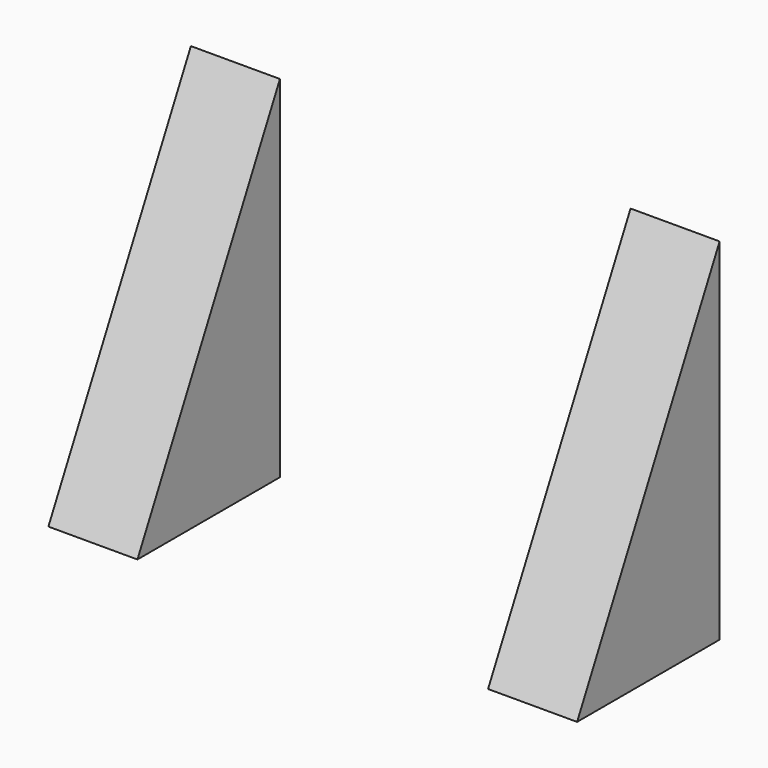
from build123d import *

# Parameters (mm, degrees)
F1_DEPTH = 30.16
F2_W     = 20
F2_H     = 20
F3_DEPTH = 10.161


with BuildPart() as f1:
    # F0 (on Right) → F1 (new body)
    with BuildSketch(Plane.YZ):
        Polygon((-10.16, 0), (0, 0), (0, 20), align=None)
    extrude(amount=F1_DEPTH)

    # F2 (on face) → F3 (cut, through all)
    with BuildSketch(Plane(origin=(0, 0, 0), x_dir=(-1, 0, 0), z_dir=(0, 1, 0))):
        with Locations((-15.08, 10)):
            Rectangle(F2_W, F2_H)
    extrude(amount=-F3_DEPTH, mode=Mode.SUBTRACT)


solid = f1.part
